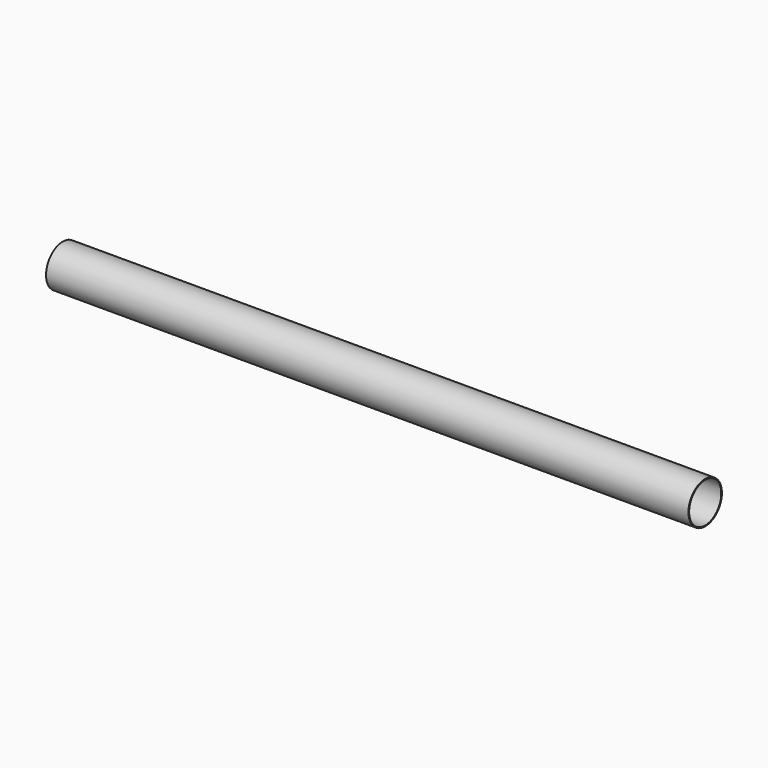
from build123d import *

# Parameters (mm, degrees)
F2_R     = 39.6875
F2_R_2   = 38.1
F3_DEPTH = 1219.2


with BuildPart() as f3:
    # F2 (on plane+point) → F3 (new body)
    with BuildSketch(Plane.YZ.offset(-558.8)):
        with Locations((39.6875, 0)):
            Circle(F2_R)
        with Locations((39.6875, 0)):
            Circle(F2_R_2, mode=Mode.SUBTRACT)
    extrude(amount=F3_DEPTH)


solid = f3.part
